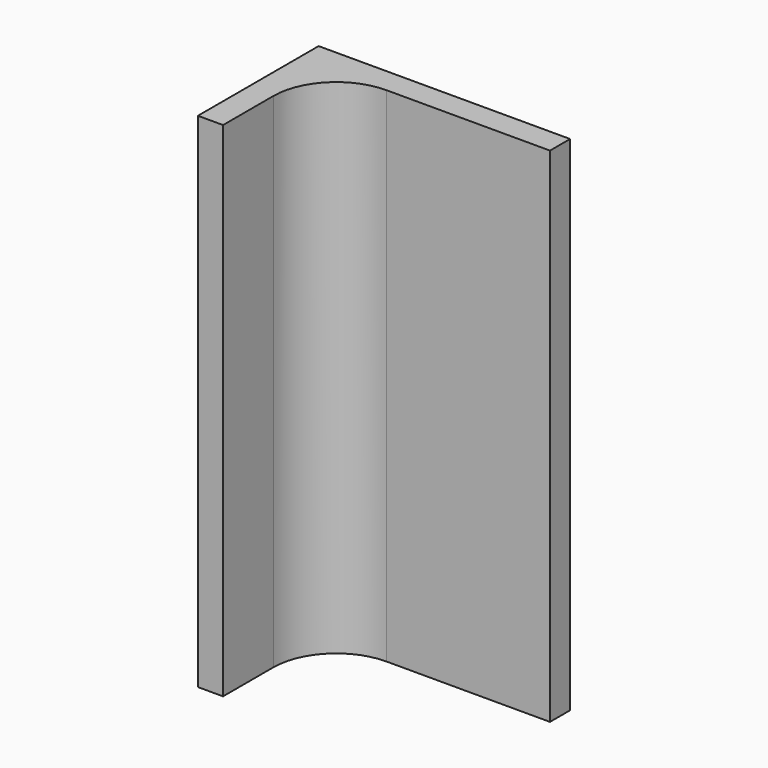
from build123d import *

# Parameters (mm, degrees)
F1_DEPTH = 100


with BuildPart() as f1:
    # F0 (on Top) → F1 (new body)
    with BuildSketch(Plane.XY):
        Polygon((5, 0), (0, 0), (0, -25), (5, -25), (5, -12.5), align=None)
        Polygon((0, 5), (0, 0), (5, 0), (17.5, 0), (50, 0), (50, 5), align=None)
        with BuildLine():
            Line((17.5, 0), (5, 0))
            Line((5, 0), (5, -12.5))
            ThreePointArc((5, -12.5), (8.661165, -3.661165), (17.5, 0))
        make_face()
    extrude(amount=F1_DEPTH)


solid = f1.part
